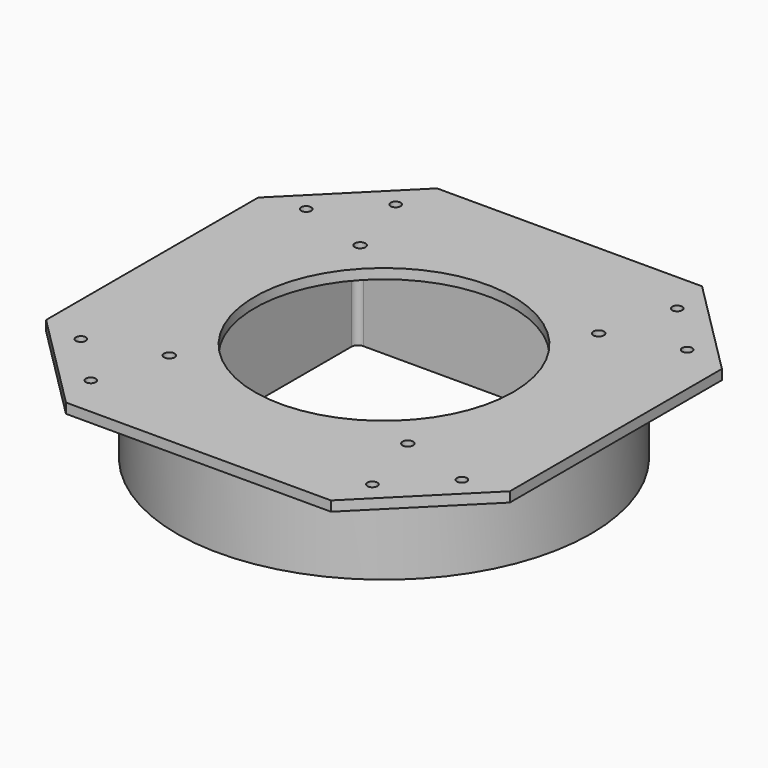
from build123d import *

# Parameters (mm, degrees)
SKETCH_W        = 140
SKETCH_H        = 140
PAD_DEPTH       = 3
SKETCH001_R     = 62.5
PAD001_DEPTH    = 27
SKETCH002_W     = 82.5
SKETCH002_H     = 82.5
POCKET_DEPTH    = 27
SKETCH003_R     = 1.6
SKETCH003_R_2   = 39
POCKET001_DEPTH = 5
FILLET_R        = 2
CHAMFER_SIZE    = 30
SKETCH004_R     = 1.5
HOLE_DEPTH      = 25
SKETCH005_W     = 6
SKETCH005_H     = 6
POCKET002_DEPTH = 24
FILLET001_R     = 2
FILLET002_R     = 2


with BuildPart() as part:
    # Sketch → Pad (new body)
    with BuildSketch(Plane.XY):
        Rectangle(SKETCH_W, SKETCH_H)
    extrude(amount=PAD_DEPTH)

    # Sketch001 (on Face5 of Pad) → Pad001 (join)
    with BuildSketch(Plane(origin=(0, 0, 0), x_dir=(1, 0, 0), z_dir=(0, 0, -1))):
        Circle(SKETCH001_R)
    extrude(amount=PAD001_DEPTH)

    # Sketch002 (on Face8 of Pad001) → Pocket (cut)
    with BuildSketch(Plane(origin=(0, 0, -27), x_dir=(1, 0, 0), z_dir=(0, 0, -1))):
        Rectangle(SKETCH002_W, SKETCH002_H)
    extrude(amount=-POCKET_DEPTH, mode=Mode.SUBTRACT)

    # Sketch003 (on Face13 of Pocket) → Pocket001 (cut)
    with BuildSketch(Plane(origin=(0, 0, 0), x_dir=(1, 0, 0), z_dir=(0, 0, -1))):
        with Locations((-36, 36)):
            Circle(SKETCH003_R)
        with Locations((36, 36)):
            Circle(SKETCH003_R)
        with Locations((-36, -36)):
            Circle(SKETCH003_R)
        with Locations((36, -36)):
            Circle(SKETCH003_R)
        Circle(SKETCH003_R_2)
    extrude(amount=-POCKET001_DEPTH, mode=Mode.SUBTRACT)

    # Fillet
    fillet_edges = [part.edges().sort_by_distance(p)[0] for p in [
        (41.25, 41.25, -13.5),
        (-41.25, 41.25, -13.5),
        (-41.25, -41.25, -13.5),
        (41.25, -41.25, -13.5),
    ]]
    fillet(fillet_edges, radius=FILLET_R)

    # Chamfer
    chamfer_edges = [part.edges().sort_by_distance(p)[0] for p in [
        (70, 70, 1.5),
        (-70, 70, 1.5),
        (70, -70, 1.5),
        (-70, -70, 1.5),
    ]]
    chamfer(chamfer_edges, length=CHAMFER_SIZE)

    # Sketch004 (on Face1 of Chamfer) → Hole (cut)
    with BuildSketch(Plane(origin=(0, 0, 0), x_dir=(1, 0, 0), z_dir=(0, 0, -1))):
        with Locations((-42.5, 57.5)):
            Circle(SKETCH004_R)
        with Locations((-57.5, 42.5)):
            Circle(SKETCH004_R)
        with Locations((42.5, 57.5)):
            Circle(SKETCH004_R)
        with Locations((57.5, 42.5)):
            Circle(SKETCH004_R)
        with Locations((57.5, -42.5)):
            Circle(SKETCH004_R)
        with Locations((42.5, -57.5)):
            Circle(SKETCH004_R)
        with Locations((-42.5, -57.5)):
            Circle(SKETCH004_R)
        with Locations((-57.5, -42.5)):
            Circle(SKETCH004_R)
    extrude(amount=-HOLE_DEPTH, mode=Mode.SUBTRACT)

    # Sketch005 (on Face20 of Hole) → Pocket002 (cut)
    with BuildSketch(Plane(origin=(0, 0, -27), x_dir=(1, 0, 0), z_dir=(0, 0, -1))):
        with Locations((44.25, 23.811943)):
            Rectangle(SKETCH005_W, SKETCH005_H)
    extrude(amount=-POCKET002_DEPTH, mode=Mode.SUBTRACT)

    # Fillet001
    fillet001_edges = [part.edges().sort_by_distance(p)[0] for p in [
        (41.25, -26.811943, -15),
        (47.25, -26.811943, -15),
        (47.25, -20.811943, -15),
        (41.25, -20.811943, -15),
        (44.25, -26.811943, -3),
        (47.25, -23.811943, -3),
        (44.25, -20.811943, -3),
        (41.25, -23.811943, -3),
    ]]
    fillet(fillet001_edges, radius=FILLET001_R)

    # Fillet002
    fillet002_edges = [part.edges().sort_by_distance(p)[0] for p in [
        (-62.5, 0, 0),
    ]]
    fillet(fillet002_edges, radius=FILLET002_R)


solid = part.part
